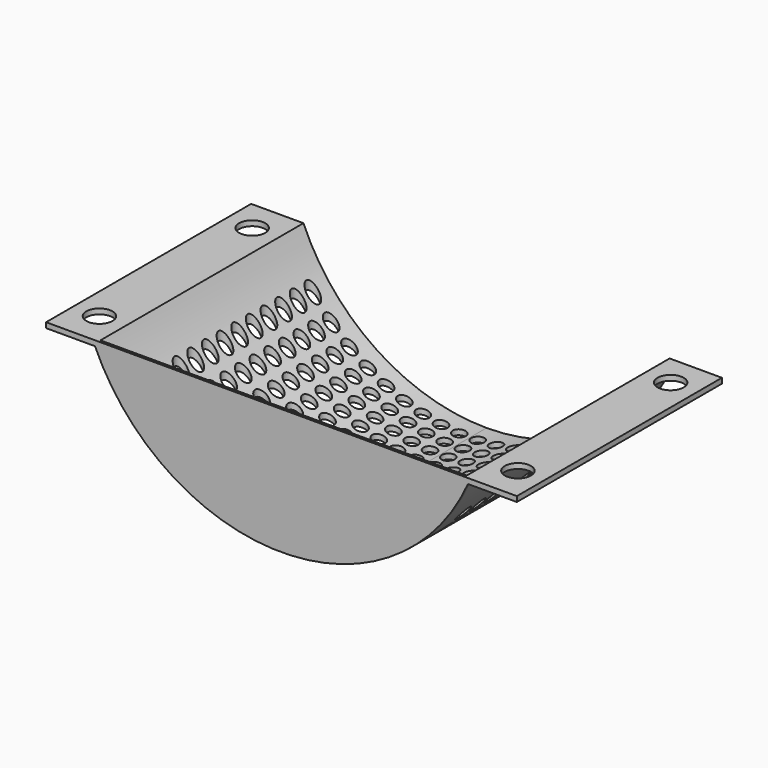
from build123d import *

# Parameters (mm, degrees)
F1_DEPTH = 97
F2_R     = 2.5
F3_DEPTH = 48.158731
F4_R     = 5
F5_DEPTH = 25
F7_DEPTH = 1


with BuildPart() as f1:
    # F0 (on Front) → F1 (new body)
    with BuildSketch(Plane.XZ):
        with BuildLine():
            ThreePointArc((0, -46.157731), (-41.924146, -33.579603), (-70, 0))
            Line((-70, 0), (-90, 0))
            Line((-90, 0), (-90, -2))
            Line((-90, -2), (-71.306598, -2))
            ThreePointArc((-71.306598, -2), (-42.47107, -35.611273), (0, -48.157731))
            ThreePointArc((0, -48.157731), (42.47107, -35.611273), (71.306598, -2))
            Line((71.306598, -2), (90, -2))
            Line((90, -2), (90, 0))
            Line((90, 0), (70, 0))
            ThreePointArc((70, 0), (41.924146, -33.579603), (0, -46.157731))
        make_face()
    extrude(amount=F1_DEPTH)

    # F2 (on Top) → F3 (cut, through all)
    with BuildSketch(Plane.XY):
        with Locations((-60, -8)):
            Circle(F2_R)
        with Locations((-53, -8)):
            Circle(F2_R)
        with Locations((-46, -8)):
            Circle(F2_R)
        with Locations((-39, -8)):
            Circle(F2_R)
        with Locations((-32, -8)):
            Circle(F2_R)
        with Locations((-25, -8)):
            Circle(F2_R)
        with Locations((-18, -8)):
            Circle(F2_R)
        with Locations((-11, -8)):
            Circle(F2_R)
        with Locations((-4, -8)):
            Circle(F2_R)
        with Locations((3, -8)):
            Circle(F2_R)
        with Locations((10, -8)):
            Circle(F2_R)
        with Locations((17, -8)):
            Circle(F2_R)
        with Locations((24, -8)):
            Circle(F2_R)
        with Locations((31, -8)):
            Circle(F2_R)
        with Locations((38, -8)):
            Circle(F2_R)
        with Locations((45, -8)):
            Circle(F2_R)
        with Locations((52, -8)):
            Circle(F2_R)
        with Locations((59, -8)):
            Circle(F2_R)
        with Locations((-60, -15)):
            Circle(F2_R)
        with Locations((-53, -15)):
            Circle(F2_R)
        with Locations((-46, -15)):
            Circle(F2_R)
        with Locations((-39, -15)):
            Circle(F2_R)
        with Locations((-32, -15)):
            Circle(F2_R)
        with Locations((-25, -15)):
            Circle(F2_R)
        with Locations((-18, -15)):
            Circle(F2_R)
        with Locations((-11, -15)):
            Circle(F2_R)
        with Locations((-4, -15)):
            Circle(F2_R)
        with Locations((3, -15)):
            Circle(F2_R)
        with Locations((10, -15)):
            Circle(F2_R)
        with Locations((17, -15)):
            Circle(F2_R)
        with Locations((31, -15)):
            Circle(F2_R)
        with Locations((38, -15)):
            Circle(F2_R)
        with Locations((45, -15)):
            Circle(F2_R)
        with Locations((52, -15)):
            Circle(F2_R)
        with Locations((59, -15)):
            Circle(F2_R)
        with Locations((-60, -22)):
            Circle(F2_R)
        with Locations((-53, -22)):
            Circle(F2_R)
        with Locations((-46, -22)):
            Circle(F2_R)
        with Locations((-39, -22)):
            Circle(F2_R)
        with Locations((-32, -22)):
            Circle(F2_R)
        with Locations((-25, -22)):
            Circle(F2_R)
        with Locations((-18, -22)):
            Circle(F2_R)
        with Locations((-11, -22)):
            Circle(F2_R)
        with Locations((-4, -22)):
            Circle(F2_R)
        with Locations((3, -22)):
            Circle(F2_R)
        with Locations((10, -22)):
            Circle(F2_R)
        with Locations((17, -22)):
            Circle(F2_R)
        with Locations((31, -22)):
            Circle(F2_R)
        with Locations((38, -22)):
            Circle(F2_R)
        with Locations((45, -22)):
            Circle(F2_R)
        with Locations((52, -22)):
            Circle(F2_R)
        with Locations((59, -22)):
            Circle(F2_R)
        with Locations((-60, -29)):
            Circle(F2_R)
        with Locations((-53, -29)):
            Circle(F2_R)
        with Locations((-46, -29)):
            Circle(F2_R)
        with Locations((-39, -29)):
            Circle(F2_R)
        with Locations((-32, -29)):
            Circle(F2_R)
        with Locations((-25, -29)):
            Circle(F2_R)
        with Locations((-18, -29)):
            Circle(F2_R)
        with Locations((-11, -29)):
            Circle(F2_R)
        with Locations((-4, -29)):
            Circle(F2_R)
        with Locations((3, -29)):
            Circle(F2_R)
        with Locations((10, -29)):
            Circle(F2_R)
        with Locations((17, -29)):
            Circle(F2_R)
        with Locations((31, -29)):
            Circle(F2_R)
        with Locations((38, -29)):
            Circle(F2_R)
        with Locations((45, -29)):
            Circle(F2_R)
        with Locations((52, -29)):
            Circle(F2_R)
        with Locations((59, -29)):
            Circle(F2_R)
        with Locations((-60, -36)):
            Circle(F2_R)
        with Locations((-53, -36)):
            Circle(F2_R)
        with Locations((-46, -36)):
            Circle(F2_R)
        with Locations((-39, -36)):
            Circle(F2_R)
        with Locations((-32, -36)):
            Circle(F2_R)
        with Locations((-25, -36)):
            Circle(F2_R)
        with Locations((-18, -36)):
            Circle(F2_R)
        with Locations((-11, -36)):
            Circle(F2_R)
        with Locations((-4, -36)):
            Circle(F2_R)
        with Locations((3, -36)):
            Circle(F2_R)
        with Locations((10, -36)):
            Circle(F2_R)
        with Locations((17, -36)):
            Circle(F2_R)
        with Locations((31, -36)):
            Circle(F2_R)
        with Locations((38, -36)):
            Circle(F2_R)
        with Locations((45, -36)):
            Circle(F2_R)
        with Locations((52, -36)):
            Circle(F2_R)
        with Locations((59, -36)):
            Circle(F2_R)
        with Locations((-60, -43)):
            Circle(F2_R)
        with Locations((-53, -43)):
            Circle(F2_R)
        with Locations((-46, -43)):
            Circle(F2_R)
        with Locations((-39, -43)):
            Circle(F2_R)
        with Locations((-32, -43)):
            Circle(F2_R)
        with Locations((-25, -43)):
            Circle(F2_R)
        with Locations((-18, -43)):
            Circle(F2_R)
        with Locations((-11, -43)):
            Circle(F2_R)
        with Locations((-4, -43)):
            Circle(F2_R)
        with Locations((3, -43)):
            Circle(F2_R)
        with Locations((10, -43)):
            Circle(F2_R)
        with Locations((17, -43)):
            Circle(F2_R)
        with Locations((31, -43)):
            Circle(F2_R)
        with Locations((38, -43)):
            Circle(F2_R)
        with Locations((45, -43)):
            Circle(F2_R)
        with Locations((52, -43)):
            Circle(F2_R)
        with Locations((59, -43)):
            Circle(F2_R)
        with Locations((-60, -50)):
            Circle(F2_R)
        with Locations((-53, -50)):
            Circle(F2_R)
        with Locations((-46, -50)):
            Circle(F2_R)
        with Locations((-39, -50)):
            Circle(F2_R)
        with Locations((-32, -50)):
            Circle(F2_R)
        with Locations((-25, -50)):
            Circle(F2_R)
        with Locations((-18, -50)):
            Circle(F2_R)
        with Locations((-11, -50)):
            Circle(F2_R)
        with Locations((-4, -50)):
            Circle(F2_R)
        with Locations((3, -50)):
            Circle(F2_R)
        with Locations((10, -50)):
            Circle(F2_R)
        with Locations((17, -50)):
            Circle(F2_R)
        with Locations((31, -50)):
            Circle(F2_R)
        with Locations((38, -50)):
            Circle(F2_R)
        with Locations((45, -50)):
            Circle(F2_R)
        with Locations((52, -50)):
            Circle(F2_R)
        with Locations((59, -50)):
            Circle(F2_R)
        with Locations((-60, -57)):
            Circle(F2_R)
        with Locations((-53, -57)):
            Circle(F2_R)
        with Locations((-46, -57)):
            Circle(F2_R)
        with Locations((-39, -57)):
            Circle(F2_R)
        with Locations((-32, -57)):
            Circle(F2_R)
        with Locations((-25, -57)):
            Circle(F2_R)
        with Locations((-18, -57)):
            Circle(F2_R)
        with Locations((-11, -57)):
            Circle(F2_R)
        with Locations((-4, -57)):
            Circle(F2_R)
        with Locations((3, -57)):
            Circle(F2_R)
        with Locations((10, -57)):
            Circle(F2_R)
        with Locations((17, -57)):
            Circle(F2_R)
        with Locations((31, -57)):
            Circle(F2_R)
        with Locations((38, -57)):
            Circle(F2_R)
        with Locations((45, -57)):
            Circle(F2_R)
        with Locations((52, -57)):
            Circle(F2_R)
        with Locations((59, -57)):
            Circle(F2_R)
        with Locations((-60, -64)):
            Circle(F2_R)
        with Locations((-53, -64)):
            Circle(F2_R)
        with Locations((-46, -64)):
            Circle(F2_R)
        with Locations((-39, -64)):
            Circle(F2_R)
        with Locations((-32, -64)):
            Circle(F2_R)
        with Locations((-25, -64)):
            Circle(F2_R)
        with Locations((-18, -64)):
            Circle(F2_R)
        with Locations((-11, -64)):
            Circle(F2_R)
        with Locations((-4, -64)):
            Circle(F2_R)
        with Locations((3, -64)):
            Circle(F2_R)
        with Locations((10, -64)):
            Circle(F2_R)
        with Locations((17, -64)):
            Circle(F2_R)
        with Locations((31, -64)):
            Circle(F2_R)
        with Locations((38, -64)):
            Circle(F2_R)
        with Locations((45, -64)):
            Circle(F2_R)
        with Locations((52, -64)):
            Circle(F2_R)
        with Locations((59, -64)):
            Circle(F2_R)
        with Locations((-60, -71)):
            Circle(F2_R)
        with Locations((-53, -71)):
            Circle(F2_R)
        with Locations((-46, -71)):
            Circle(F2_R)
        with Locations((-39, -71)):
            Circle(F2_R)
        with Locations((-32, -71)):
            Circle(F2_R)
        with Locations((-25, -71)):
            Circle(F2_R)
        with Locations((-18, -71)):
            Circle(F2_R)
        with Locations((-11, -71)):
            Circle(F2_R)
        with Locations((-4, -71)):
            Circle(F2_R)
        with Locations((3, -71)):
            Circle(F2_R)
        with Locations((10, -71)):
            Circle(F2_R)
        with Locations((17, -71)):
            Circle(F2_R)
        with Locations((31, -71)):
            Circle(F2_R)
        with Locations((38, -71)):
            Circle(F2_R)
        with Locations((45, -71)):
            Circle(F2_R)
        with Locations((52, -71)):
            Circle(F2_R)
        with Locations((59, -71)):
            Circle(F2_R)
        with Locations((-60, -78)):
            Circle(F2_R)
        with Locations((-53, -78)):
            Circle(F2_R)
        with Locations((-46, -78)):
            Circle(F2_R)
        with Locations((-39, -78)):
            Circle(F2_R)
        with Locations((-32, -78)):
            Circle(F2_R)
        with Locations((-25, -78)):
            Circle(F2_R)
        with Locations((-18, -78)):
            Circle(F2_R)
        with Locations((-11, -78)):
            Circle(F2_R)
        with Locations((-4, -78)):
            Circle(F2_R)
        with Locations((3, -78)):
            Circle(F2_R)
        with Locations((10, -78)):
            Circle(F2_R)
        with Locations((17, -78)):
            Circle(F2_R)
        with Locations((31, -78)):
            Circle(F2_R)
        with Locations((38, -78)):
            Circle(F2_R)
        with Locations((45, -78)):
            Circle(F2_R)
        with Locations((52, -78)):
            Circle(F2_R)
        with Locations((59, -78)):
            Circle(F2_R)
        with Locations((-60, -85)):
            Circle(F2_R)
        with Locations((-53, -85)):
            Circle(F2_R)
        with Locations((-46, -85)):
            Circle(F2_R)
        with Locations((-39, -85)):
            Circle(F2_R)
        with Locations((-32, -85)):
            Circle(F2_R)
        with Locations((-25, -85)):
            Circle(F2_R)
        with Locations((-18, -85)):
            Circle(F2_R)
        with Locations((-11, -85)):
            Circle(F2_R)
        with Locations((-4, -85)):
            Circle(F2_R)
        with Locations((3, -85)):
            Circle(F2_R)
        with Locations((10, -85)):
            Circle(F2_R)
        with Locations((17, -85)):
            Circle(F2_R)
        with Locations((31, -85)):
            Circle(F2_R)
        with Locations((38, -85)):
            Circle(F2_R)
        with Locations((45, -85)):
            Circle(F2_R)
        with Locations((52, -85)):
            Circle(F2_R)
        with Locations((59, -85)):
            Circle(F2_R)
        with Locations((24, -15)):
            Circle(F2_R)
        with Locations((24, -22)):
            Circle(F2_R)
        with Locations((24, -29)):
            Circle(F2_R)
        with Locations((24, -36)):
            Circle(F2_R)
        with Locations((24, -43)):
            Circle(F2_R)
        with Locations((24, -50)):
            Circle(F2_R)
        with Locations((24, -57)):
            Circle(F2_R)
        with Locations((24, -64)):
            Circle(F2_R)
        with Locations((24, -71)):
            Circle(F2_R)
        with Locations((24, -78)):
            Circle(F2_R)
        with Locations((24, -85)):
            Circle(F2_R)
    extrude(amount=-F3_DEPTH, mode=Mode.SUBTRACT)

    # F4 (on Top) → F5 (cut)
    with BuildSketch(Plane.XY):
        with Locations((-80, -12)):
            Circle(F4_R)
        with Locations((80, -12)):
            Circle(F4_R)
        with Locations((-80, -85)):
            Circle(F4_R)
        with Locations((80, -85)):
            Circle(F4_R)
    extrude(amount=-F5_DEPTH, mode=Mode.SUBTRACT)

    # F6 (on face) → F7 (join)
    with BuildSketch(Plane.XZ.offset(97)):
        with BuildLine():
            Line((90, -2), (90, 0))
            Line((90, 0), (70, 0))
            Line((70, 0), (-70, 0))
            Line((-70, 0), (-90, 0))
            Line((-90, 0), (-90, -2))
            Line((-90, -2), (-71.306598, -2))
            ThreePointArc((-71.306598, -2), (0, -48.157731), (71.306598, -2))
            Line((71.306598, -2), (90, -2))
        make_face()
    extrude(amount=F7_DEPTH)


solid = f1.part
